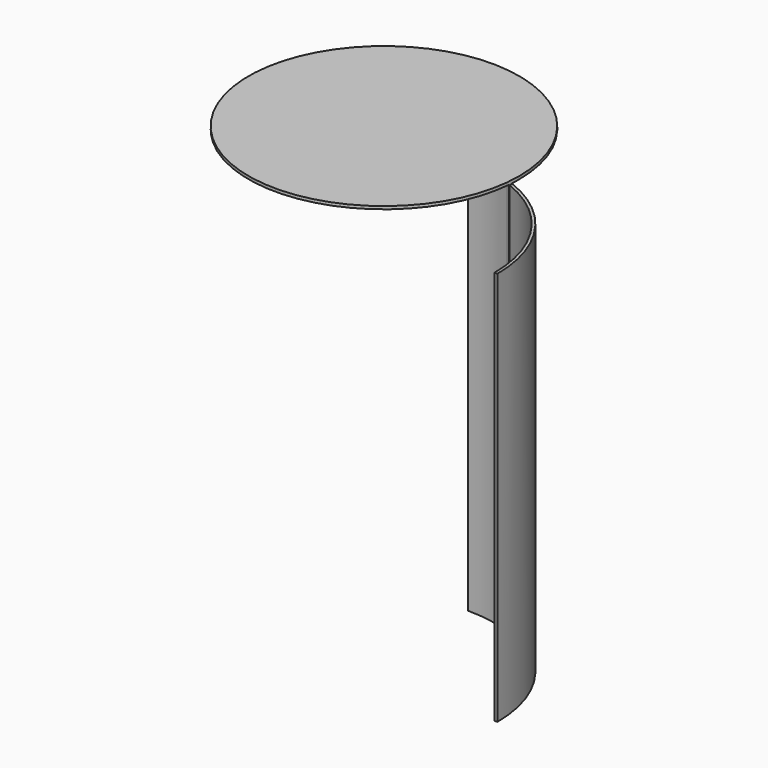
from build123d import *

# Parameters (mm, degrees)
F0_R     = 298.45
F1_DEPTH = 6.35
F3_DEPTH = 869.95


with BuildPart() as f1:
    # F0 (on Top) → F1 (new body)
    with BuildSketch(Plane.XY):
        Circle(F0_R)
    extrude(amount=F1_DEPTH)

    # F2 (on face) → F3 (join)
    with BuildSketch(Plane(origin=(0, 0, 0), x_dir=(1, 0, 0), z_dir=(0, 0, -1))):
        with BuildLine():
            Line((190.5, 6.3500086406), (190.5, 0))
            ThreePointArc((190.5, 0), (241.7970177433, 4.4414653099), (291.567254285, 17.6336674777))
            ThreePointArc((291.567254285, 17.6336674777), (291.3493839809, 20.9271702332), (291.094311925, 24.218000845))
            ThreePointArc((291.094311925, 24.218000845), (241.5844417046, 10.8516954711), (190.5, 6.3500086406))
        make_face()
        with BuildLine():
            ThreePointArc((291.094311925, 24.218000845), (291.3493839809, 20.9271702332), (291.567254285, 17.6336674777))
            ThreePointArc((291.567254285, 17.6336674777), (294.6813308905, 18.774021779), (297.7825440966, 19.9489080234))
            ThreePointArc((297.7825440967, 19.9489080234), (297.5424958598, 23.2565186022), (297.2657095789, 26.5612576617))
            ThreePointArc((297.2657095789, 26.5612576617), (294.1866304913, 25.3721949525), (291.094311925, 24.218000845))
        make_face()
    extrude(amount=F3_DEPTH)


with BuildPart() as f3:
    # F2 (on face) → F3, piece 2 (new body)
    with BuildSketch(Plane(origin=(0, 0, 0), x_dir=(1, 0, 0), z_dir=(0, 0, -1))):
        with BuildLine():
            ThreePointArc((298.8430011947, 27.1859237858), (299.1255223628, 23.8775142405), (299.3714181585, 20.5661810969))
            ThreePointArc((299.3714181585, 20.5661810969), (437.0411499622, 130.254090789), (488.95, 298.45))
            Line((488.95, 298.45), (482.5999913594, 298.45))
            ThreePointArc((482.5999913594, 298.45), (432.3360960082, 134.6278170708), (298.8430011947, 27.1859237859))
        make_face()
    extrude(amount=F3_DEPTH)


solid = Compound([f1.part, f3.part])
